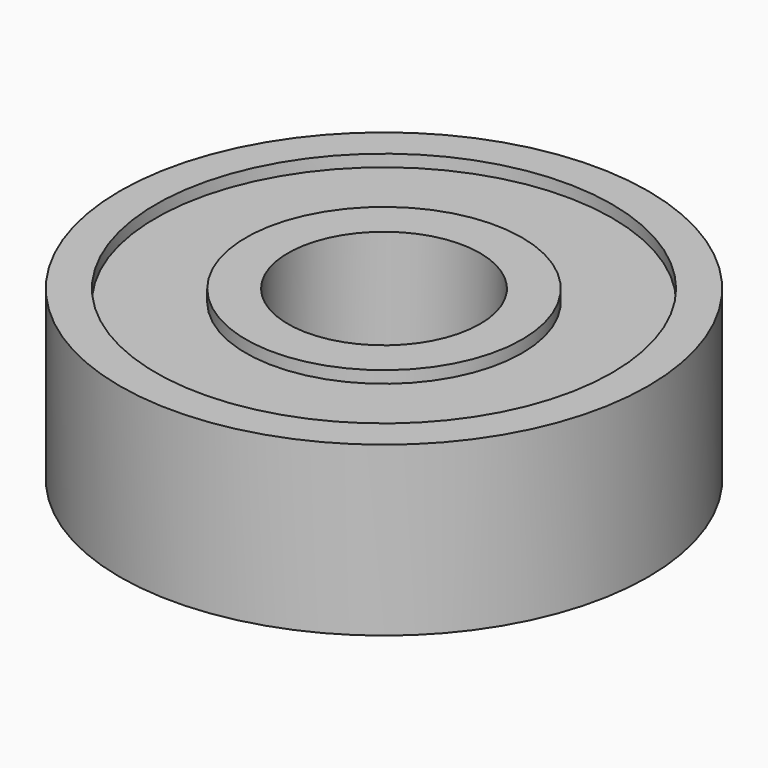
from build123d import *

# Parameters (mm, degrees)
SKETCH_R        = 11
SKETCH_R_2      = 4
PAD_DEPTH       = 7
SKETCH001_R     = 9.5
SKETCH001_R_2   = 5.75
POCKET_DEPTH    = 0.5
SKETCH002_R     = 9.5
SKETCH002_R_2   = 5.75
POCKET001_DEPTH = 0.5


with BuildPart() as part:
    # Sketch → Pad (new body)
    with BuildSketch(Plane.XY):
        Circle(SKETCH_R)
        Circle(SKETCH_R_2, mode=Mode.SUBTRACT)
    extrude(amount=PAD_DEPTH)

    # Sketch001 → Pocket (cut)
    with BuildSketch(Plane.XY):
        Circle(SKETCH001_R)
        Circle(SKETCH001_R_2, mode=Mode.SUBTRACT)
    extrude(amount=POCKET_DEPTH, mode=Mode.SUBTRACT)

    # Sketch002 (on DatumPlane) → Pocket001 (cut)
    with BuildSketch(Plane.XY.offset(7)):
        Circle(SKETCH002_R)
        Circle(SKETCH002_R_2, mode=Mode.SUBTRACT)
    extrude(amount=-POCKET001_DEPTH, mode=Mode.SUBTRACT)


solid = part.part
